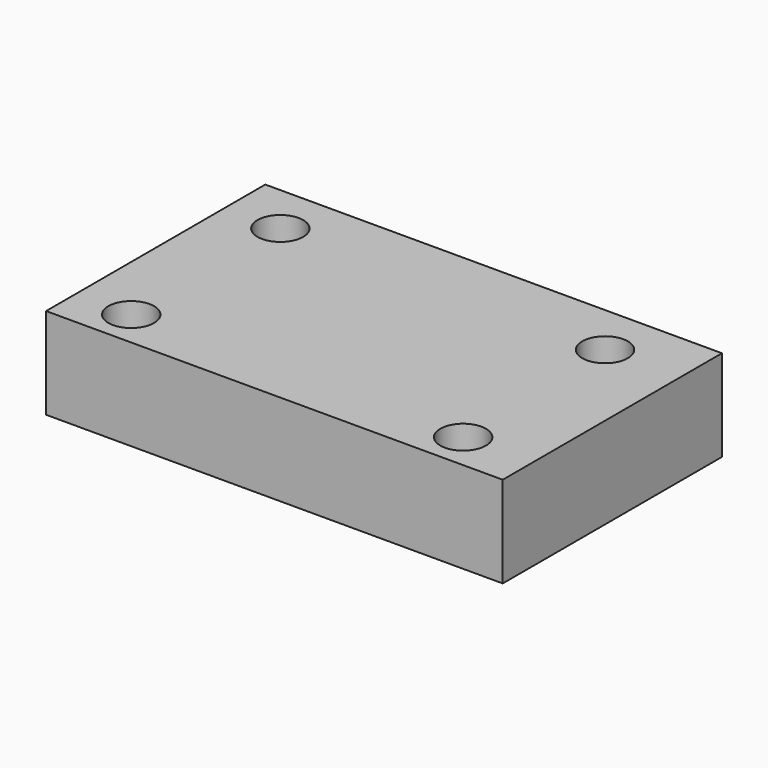
from build123d import *

# Parameters (mm, degrees)
F0_W     = 127
F0_H     = 76.2
F1_DEPTH = 25.4
F2_R     = 6.35
F3_DEPTH = 25.401


with BuildPart() as f1:
    # F0 (on Top) → F1 (new body)
    with BuildSketch(Plane.XY):
        Rectangle(F0_W, F0_H)
    extrude(amount=F1_DEPTH)

    # F2 (on Top) → F3 (cut, through all)
    with BuildSketch(Plane.XY):
        with Locations((-48.03089, -27.837213)):
            Circle(F2_R)
        with Locations((44.281855, -27.837213)):
            Circle(F2_R)
        with Locations((42.659267, 23.51901)):
            Circle(F2_R)
        with Locations((-48.03089, 24.004152)):
            Circle(F2_R)
    extrude(amount=F3_DEPTH, mode=Mode.SUBTRACT)


solid = f1.part
